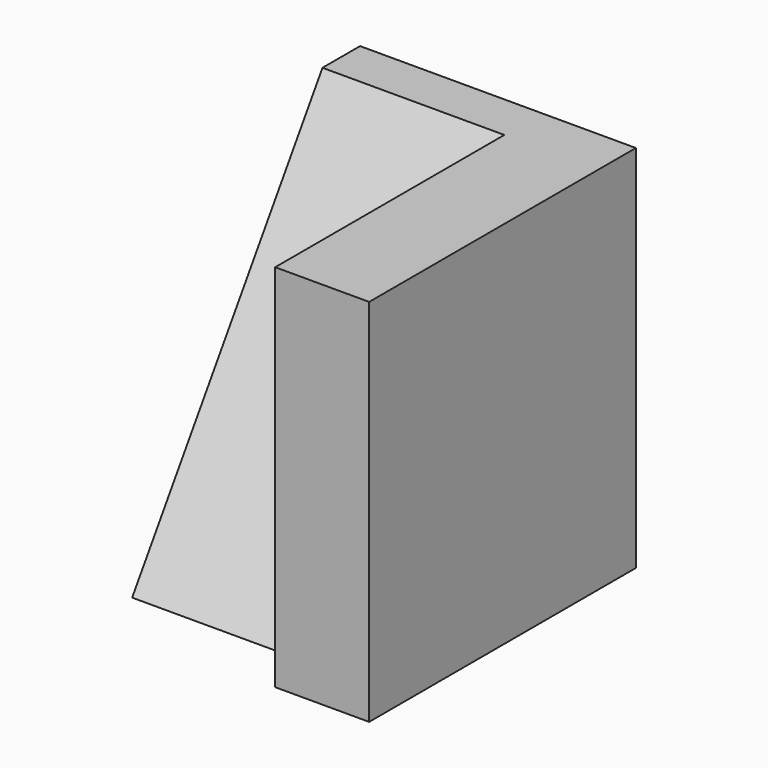
from build123d import *

# Parameters (mm, degrees)
F1_DEPTH = 55
F3_DEPTH = 30


with BuildPart() as f1:
    # F0 (on Front) → F1 (new body)
    with BuildSketch(Plane.XZ):
        Polygon((15, 61), (15, 0), (30.5, 0), (30.5, 15), (30.5, 61), align=None)
    extrude(amount=F1_DEPTH)

    # F2 (on face) → F3 (join)
    with BuildSketch(Plane(origin=(15, 0, 0), x_dir=(0, -1, 0), z_dir=(-1, 0, 0))):
        Polygon((7.75, 61), (0, 61), (0, 0), (47, 0), align=None)
    extrude(amount=F3_DEPTH)


solid = f1.part
